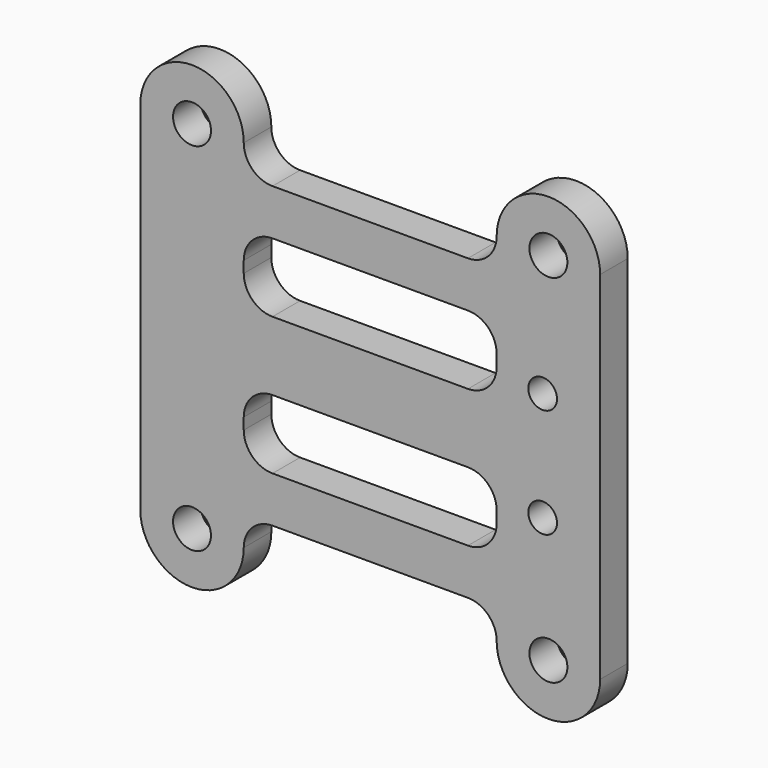
from build123d import *

# Parameters (mm, degrees)
F0_R     = 1.65
F0_R_2   = 1.25
F1_DEPTH = 3


with BuildPart() as f1:
    # F0 (on Front) → F1 (new body)
    with BuildSketch(Plane.XZ):
        with BuildLine():
            ThreePointArc((-8.5, 13), (-10.267767, 13.732233), (-11, 15.5))
            ThreePointArc((-11, 15.5), (-15.5, 20), (-20, 15.5))
            Line((-20, 15.5), (-20, -15.5))
            ThreePointArc((-20, -15.5), (-15.5, -20), (-11, -15.5))
            ThreePointArc((-11, -15.5), (-10.267767, -13.732233), (-8.5, -13))
            Line((-8.5, -13), (8.5, -13))
            ThreePointArc((8.5, -13), (10.267767, -13.732233), (11, -15.5))
            ThreePointArc((11, -15.5), (15.5, -20), (20, -15.5))
            Line((20, -15.5), (20, 15.5))
            ThreePointArc((20, 15.5), (15.5, 20), (11, 15.5))
            ThreePointArc((11, 15.5), (10.267767, 13.732233), (8.5, 13))
            Line((8.5, 13), (-8.5, 13))
        make_face()
        with Locations((-15.5, -15.5)):
            Circle(F0_R, mode=Mode.SUBTRACT)
        with Locations((15.5, -15.5)):
            Circle(F0_R, mode=Mode.SUBTRACT)
        with BuildLine():
            Line((-8.5, -3), (8.5, -3))
            ThreePointArc((8.5, -3), (10.267767, -3.732233), (11, -5.5))
            Line((11, -5.5), (11, -6.5))
            ThreePointArc((11, -6.5), (10.267767, -8.267767), (8.5, -9))
            Line((8.5, -9), (-8.5, -9))
            ThreePointArc((-8.5, -9), (-10.267767, -8.267767), (-11, -6.5))
            Line((-11, -6.5), (-11, -5.5))
            ThreePointArc((-11, -5.5), (-10.267767, -3.732233), (-8.5, -3))
        make_face(mode=Mode.SUBTRACT)
        with Locations((15, -4.75)):
            Circle(F0_R_2, mode=Mode.SUBTRACT)
        with Locations((-15.5, 15.5)):
            Circle(F0_R, mode=Mode.SUBTRACT)
        with BuildLine():
            ThreePointArc((11, 5.5), (10.267767, 3.732233), (8.5, 3))
            Line((8.5, 3), (-8.5, 3))
            ThreePointArc((-8.5, 3), (-10.267767, 3.732233), (-11, 5.5))
            Line((-11, 5.5), (-11, 6.5))
            ThreePointArc((-11, 6.5), (-10.267767, 8.267767), (-8.5, 9))
            Line((-8.5, 9), (8.5, 9))
            ThreePointArc((8.5, 9), (10.267767, 8.267767), (11, 6.5))
            Line((11, 6.5), (11, 5.5))
        make_face(mode=Mode.SUBTRACT)
        with Locations((15, 4.75)):
            Circle(F0_R_2, mode=Mode.SUBTRACT)
        with Locations((15.5, 15.5)):
            Circle(F0_R, mode=Mode.SUBTRACT)
    extrude(amount=F1_DEPTH)


solid = f1.part
